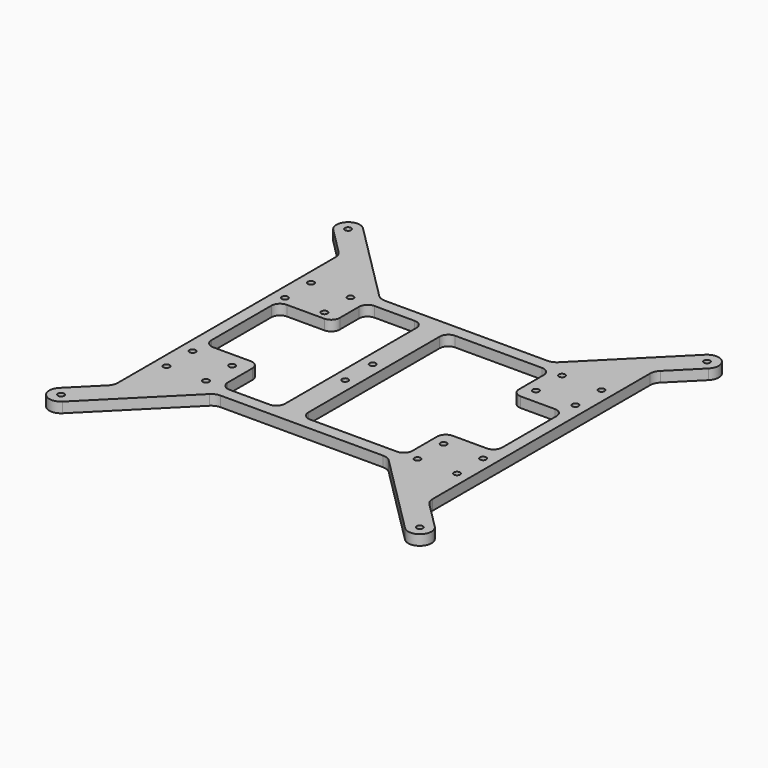
from build123d import *

# Parameters (mm, degrees)
F0_R     = 1.8
F1_DEPTH = 6


with BuildPart() as f1:
    # F0 (on Top) → F1 (new body)
    with BuildSketch(Plane.XY):
        with BuildLine():
            Line((107.6, 97.983348), (107.6, 107.6))
            Line((107.6, 107.6), (97.983348, 107.6))
            Line((97.983348, 107.6), (52.244452, 61.861104))
            ThreePointArc((52.244452, 61.861104), (49.973488, 60.343695), (47.294704, 59.810851))
            Line((47.294704, 59.810851), (-47.294704, 59.810851))
            ThreePointArc((-47.294704, 59.810851), (-49.973488, 60.343695), (-52.244452, 61.861104))
            Line((-52.244452, 61.861104), (-97.983348, 107.6))
            Line((-97.983348, 107.6), (-107.6, 107.6))
            Line((-107.6, 107.6), (-107.6, 97.983348))
            Line((-107.6, 97.983348), (-93.680909, 84.064257))
            ThreePointArc((-93.680909, 84.064257), (-92.1635, 81.793293), (-91.630657, 79.114509))
            Line((-91.630657, 79.114509), (-91.630657, -79.114509))
            ThreePointArc((-91.630657, -79.114509), (-92.1635, -81.793293), (-93.680909, -84.064257))
            Line((-93.680909, -84.064257), (-107.6, -97.983348))
            Line((-107.6, -97.983348), (-107.6, -107.6))
            Line((-107.6, -107.6), (-97.983348, -107.6))
            Line((-97.983348, -107.6), (-52.244452, -61.861104))
            ThreePointArc((-52.244452, -61.861104), (-49.973488, -60.343695), (-47.294704, -59.810851))
            Line((-47.294704, -59.810851), (47.294704, -59.810851))
            ThreePointArc((47.294704, -59.810851), (49.973488, -60.343695), (52.244452, -61.861104))
            Line((52.244452, -61.861104), (97.983348, -107.6))
            Line((97.983348, -107.6), (107.6, -107.6))
            Line((107.6, -107.6), (107.6, -97.983348))
            Line((107.6, -97.983348), (93.680909, -84.064257))
            ThreePointArc((93.680909, -84.064257), (92.1635, -81.793293), (91.630657, -79.114509))
            Line((91.630657, -79.114509), (91.630657, 79.114509))
            ThreePointArc((91.630657, 79.114509), (92.1635, 81.793293), (93.680909, 84.064257))
            Line((93.680909, 84.064257), (107.6, 97.983348))
        make_face()
        with Locations((-104.5, -104.5)):
            Circle(F0_R, mode=Mode.SUBTRACT)
        with Locations((-84.6, -52.6)):
            Circle(F0_R, mode=Mode.SUBTRACT)
        with Locations((-84.6, -33.6)):
            Circle(F0_R, mode=Mode.SUBTRACT)
        with Locations((-61.6, -52.6)):
            Circle(F0_R, mode=Mode.SUBTRACT)
        with Locations((-61.6, -33.6)):
            Circle(F0_R, mode=Mode.SUBTRACT)
        with Locations((-12.6, -12.5)):
            Circle(F0_R, mode=Mode.SUBTRACT)
        with Locations((104.5, -104.5)):
            Circle(F0_R, mode=Mode.SUBTRACT)
        with Locations((61.6, -52.6)):
            Circle(F0_R, mode=Mode.SUBTRACT)
        with Locations((61.6, -33.6)):
            Circle(F0_R, mode=Mode.SUBTRACT)
        with Locations((84.6, -52.6)):
            Circle(F0_R, mode=Mode.SUBTRACT)
        with Locations((84.6, -33.6)):
            Circle(F0_R, mode=Mode.SUBTRACT)
        with Locations((-84.6, 33.6)):
            Circle(F0_R, mode=Mode.SUBTRACT)
        with Locations((-84.6, 52.6)):
            Circle(F0_R, mode=Mode.SUBTRACT)
        with Locations((-61.6, 33.6)):
            Circle(F0_R, mode=Mode.SUBTRACT)
        with Locations((-61.6, 52.6)):
            Circle(F0_R, mode=Mode.SUBTRACT)
        with BuildLine():
            ThreePointArc((-19.4, -47.810851), (-20.864466, -51.346385), (-24.4, -52.810851))
            Line((-24.4, -52.810851), (-47.8, -52.810851))
            ThreePointArc((-47.8, -52.810851), (-51.335534, -51.346385), (-52.8, -47.810851))
            Line((-52.8, -47.810851), (-52.8, -29.8))
            ThreePointArc((-52.8, -29.8), (-54.264466, -26.264466), (-57.8, -24.8))
            Line((-57.8, -24.8), (-79.630657, -24.8))
            ThreePointArc((-79.630657, -24.8), (-83.16619, -23.335534), (-84.630657, -19.8))
            Line((-84.630657, -19.8), (-84.630657, 23.8))
            ThreePointArc((-84.630657, 23.8), (-83.16619, 27.335534), (-79.630657, 28.8))
            Line((-79.630657, 28.8), (-57.8, 28.8))
            ThreePointArc((-57.8, 28.8), (-54.264466, 30.264466), (-52.8, 33.8))
            Line((-52.8, 33.8), (-52.8, 47.810851))
            ThreePointArc((-52.8, 47.810851), (-51.335534, 51.346385), (-47.8, 52.810851))
            Line((-47.8, 52.810851), (-24.4, 52.810851))
            ThreePointArc((-24.4, 52.810851), (-20.864466, 51.346385), (-19.4, 47.810851))
            Line((-19.4, 47.810851), (-19.4, -47.810851))
        make_face(mode=Mode.SUBTRACT)
        with Locations((-12.6, 7.5)):
            Circle(F0_R, mode=Mode.SUBTRACT)
        with Locations((-104.5, 104.5)):
            Circle(F0_R, mode=Mode.SUBTRACT)
        with BuildLine():
            ThreePointArc((-5.8, 47.810851), (-4.335534, 51.346385), (-0.8, 52.810851))
            Line((-0.8, 52.810851), (49.8, 52.810851))
            ThreePointArc((49.8, 52.810851), (53.335534, 51.346385), (54.8, 47.810851))
            Line((54.8, 47.810851), (54.8, 29.8))
            ThreePointArc((54.8, 29.8), (56.264466, 26.264466), (59.8, 24.8))
            Line((59.8, 24.8), (79.630657, 24.8))
            ThreePointArc((79.630657, 24.8), (83.16619, 23.335534), (84.630657, 19.8))
            Line((84.630657, 19.8), (84.630657, -19.795132))
            ThreePointArc((84.630657, -19.795132), (83.16619, -23.330666), (79.630657, -24.795132))
            Line((79.630657, -24.795132), (59.8, -24.795132))
            ThreePointArc((59.8, -24.795132), (56.264466, -26.259598), (54.8, -29.795132))
            Line((54.8, -29.795132), (54.8, -47.810851))
            ThreePointArc((54.8, -47.810851), (53.335534, -51.346385), (49.8, -52.810851))
            Line((49.8, -52.810851), (-0.8, -52.810851))
            ThreePointArc((-0.8, -52.810851), (-4.335534, -51.346385), (-5.8, -47.810851))
            Line((-5.8, -47.810851), (-5.8, 47.810851))
        make_face(mode=Mode.SUBTRACT)
        with Locations((61.6, 33.6)):
            Circle(F0_R, mode=Mode.SUBTRACT)
        with Locations((61.6, 52.6)):
            Circle(F0_R, mode=Mode.SUBTRACT)
        with Locations((84.6, 33.6)):
            Circle(F0_R, mode=Mode.SUBTRACT)
        with Locations((84.6, 52.6)):
            Circle(F0_R, mode=Mode.SUBTRACT)
        with Locations((104.5, 104.5)):
            Circle(F0_R, mode=Mode.SUBTRACT)
        with BuildLine():
            Line((-107.6, 107.6), (-97.983348, 107.6))
            Line((-97.983348, 107.6), (-99.691674, 109.308326))
            ThreePointArc((-99.691674, 109.308326), (-109.308326, 109.308326), (-109.308326, 99.691674))
            Line((-109.308326, 99.691674), (-107.6, 97.983348))
            Line((-107.6, 97.983348), (-107.6, 107.6))
        make_face()
        with BuildLine():
            Line((97.983348, 107.6), (107.6, 107.6))
            Line((107.6, 107.6), (107.6, 97.983348))
            Line((107.6, 97.983348), (109.308326, 99.691674))
            ThreePointArc((109.308326, 99.691674), (109.308326, 109.308326), (99.691674, 109.308326))
            Line((99.691674, 109.308326), (97.983348, 107.6))
        make_face()
        with BuildLine():
            Line((109.308326, -99.691674), (107.6, -97.983348))
            Line((107.6, -97.983348), (107.6, -107.6))
            Line((107.6, -107.6), (97.983348, -107.6))
            Line((97.983348, -107.6), (99.691674, -109.308326))
            ThreePointArc((99.691674, -109.308326), (109.308326, -109.308326), (109.308326, -99.691674))
        make_face()
        with BuildLine():
            Line((-107.6, -107.6), (-107.6, -97.983348))
            Line((-107.6, -97.983348), (-109.308326, -99.691674))
            ThreePointArc((-109.308326, -99.691674), (-109.308326, -109.308326), (-99.691674, -109.308326))
            Line((-99.691674, -109.308326), (-97.983348, -107.6))
            Line((-97.983348, -107.6), (-107.6, -107.6))
        make_face()
        with BuildLine():
            Line((107.6, 97.983348), (107.6, 107.6))
            Line((107.6, 107.6), (97.983348, 107.6))
            Line((97.983348, 107.6), (52.244452, 61.861104))
            ThreePointArc((52.244452, 61.861104), (49.973488, 60.343695), (47.294704, 59.810851))
            Line((47.294704, 59.810851), (-47.294704, 59.810851))
            ThreePointArc((-47.294704, 59.810851), (-49.973488, 60.343695), (-52.244452, 61.861104))
            Line((-52.244452, 61.861104), (-97.983348, 107.6))
            Line((-97.983348, 107.6), (-107.6, 107.6))
            Line((-107.6, 107.6), (-107.6, 97.983348))
            Line((-107.6, 97.983348), (-93.680909, 84.064257))
            ThreePointArc((-93.680909, 84.064257), (-92.1635, 81.793293), (-91.630657, 79.114509))
            Line((-91.630657, 79.114509), (-91.630657, -79.114509))
            ThreePointArc((-91.630657, -79.114509), (-92.1635, -81.793293), (-93.680909, -84.064257))
            Line((-93.680909, -84.064257), (-107.6, -97.983348))
            Line((-107.6, -97.983348), (-107.6, -107.6))
            Line((-107.6, -107.6), (-97.983348, -107.6))
            Line((-97.983348, -107.6), (-52.244452, -61.861104))
            ThreePointArc((-52.244452, -61.861104), (-49.973488, -60.343695), (-47.294704, -59.810851))
            Line((-47.294704, -59.810851), (47.294704, -59.810851))
            ThreePointArc((47.294704, -59.810851), (49.973488, -60.343695), (52.244452, -61.861104))
            Line((52.244452, -61.861104), (97.983348, -107.6))
            Line((97.983348, -107.6), (107.6, -107.6))
            Line((107.6, -107.6), (107.6, -97.983348))
            Line((107.6, -97.983348), (93.680909, -84.064257))
            ThreePointArc((93.680909, -84.064257), (92.1635, -81.793293), (91.630657, -79.114509))
            Line((91.630657, -79.114509), (91.630657, 79.114509))
            ThreePointArc((91.630657, 79.114509), (92.1635, 81.793293), (93.680909, 84.064257))
            Line((93.680909, 84.064257), (107.6, 97.983348))
        make_face()
        with Locations((-104.5, -104.5)):
            Circle(F0_R, mode=Mode.SUBTRACT)
        with Locations((-84.6, -52.6)):
            Circle(F0_R, mode=Mode.SUBTRACT)
        with Locations((-84.6, -33.6)):
            Circle(F0_R, mode=Mode.SUBTRACT)
        with Locations((-61.6, -52.6)):
            Circle(F0_R, mode=Mode.SUBTRACT)
        with Locations((-61.6, -33.6)):
            Circle(F0_R, mode=Mode.SUBTRACT)
        with Locations((-12.6, -12.5)):
            Circle(F0_R, mode=Mode.SUBTRACT)
        with Locations((104.5, -104.5)):
            Circle(F0_R, mode=Mode.SUBTRACT)
        with Locations((61.6, -52.6)):
            Circle(F0_R, mode=Mode.SUBTRACT)
        with Locations((61.6, -33.6)):
            Circle(F0_R, mode=Mode.SUBTRACT)
        with Locations((84.6, -52.6)):
            Circle(F0_R, mode=Mode.SUBTRACT)
        with Locations((84.6, -33.6)):
            Circle(F0_R, mode=Mode.SUBTRACT)
        with Locations((-84.6, 33.6)):
            Circle(F0_R, mode=Mode.SUBTRACT)
        with Locations((-84.6, 52.6)):
            Circle(F0_R, mode=Mode.SUBTRACT)
        with Locations((-61.6, 33.6)):
            Circle(F0_R, mode=Mode.SUBTRACT)
        with Locations((-61.6, 52.6)):
            Circle(F0_R, mode=Mode.SUBTRACT)
        with BuildLine():
            ThreePointArc((-19.4, -47.810851), (-20.864466, -51.346385), (-24.4, -52.810851))
            Line((-24.4, -52.810851), (-47.8, -52.810851))
            ThreePointArc((-47.8, -52.810851), (-51.335534, -51.346385), (-52.8, -47.810851))
            Line((-52.8, -47.810851), (-52.8, -29.8))
            ThreePointArc((-52.8, -29.8), (-54.264466, -26.264466), (-57.8, -24.8))
            Line((-57.8, -24.8), (-79.630657, -24.8))
            ThreePointArc((-79.630657, -24.8), (-83.16619, -23.335534), (-84.630657, -19.8))
            Line((-84.630657, -19.8), (-84.630657, 23.8))
            ThreePointArc((-84.630657, 23.8), (-83.16619, 27.335534), (-79.630657, 28.8))
            Line((-79.630657, 28.8), (-57.8, 28.8))
            ThreePointArc((-57.8, 28.8), (-54.264466, 30.264466), (-52.8, 33.8))
            Line((-52.8, 33.8), (-52.8, 47.810851))
            ThreePointArc((-52.8, 47.810851), (-51.335534, 51.346385), (-47.8, 52.810851))
            Line((-47.8, 52.810851), (-24.4, 52.810851))
            ThreePointArc((-24.4, 52.810851), (-20.864466, 51.346385), (-19.4, 47.810851))
            Line((-19.4, 47.810851), (-19.4, -47.810851))
        make_face(mode=Mode.SUBTRACT)
        with Locations((-12.6, 7.5)):
            Circle(F0_R, mode=Mode.SUBTRACT)
        with Locations((-104.5, 104.5)):
            Circle(F0_R, mode=Mode.SUBTRACT)
        with BuildLine():
            ThreePointArc((-5.8, 47.810851), (-4.335534, 51.346385), (-0.8, 52.810851))
            Line((-0.8, 52.810851), (49.8, 52.810851))
            ThreePointArc((49.8, 52.810851), (53.335534, 51.346385), (54.8, 47.810851))
            Line((54.8, 47.810851), (54.8, 29.8))
            ThreePointArc((54.8, 29.8), (56.264466, 26.264466), (59.8, 24.8))
            Line((59.8, 24.8), (79.630657, 24.8))
            ThreePointArc((79.630657, 24.8), (83.16619, 23.335534), (84.630657, 19.8))
            Line((84.630657, 19.8), (84.630657, -19.795132))
            ThreePointArc((84.630657, -19.795132), (83.16619, -23.330666), (79.630657, -24.795132))
            Line((79.630657, -24.795132), (59.8, -24.795132))
            ThreePointArc((59.8, -24.795132), (56.264466, -26.259598), (54.8, -29.795132))
            Line((54.8, -29.795132), (54.8, -47.810851))
            ThreePointArc((54.8, -47.810851), (53.335534, -51.346385), (49.8, -52.810851))
            Line((49.8, -52.810851), (-0.8, -52.810851))
            ThreePointArc((-0.8, -52.810851), (-4.335534, -51.346385), (-5.8, -47.810851))
            Line((-5.8, -47.810851), (-5.8, 47.810851))
        make_face(mode=Mode.SUBTRACT)
        with Locations((61.6, 33.6)):
            Circle(F0_R, mode=Mode.SUBTRACT)
        with Locations((61.6, 52.6)):
            Circle(F0_R, mode=Mode.SUBTRACT)
        with Locations((84.6, 33.6)):
            Circle(F0_R, mode=Mode.SUBTRACT)
        with Locations((84.6, 52.6)):
            Circle(F0_R, mode=Mode.SUBTRACT)
        with Locations((104.5, 104.5)):
            Circle(F0_R, mode=Mode.SUBTRACT)
    extrude(amount=F1_DEPTH)


solid = f1.part
